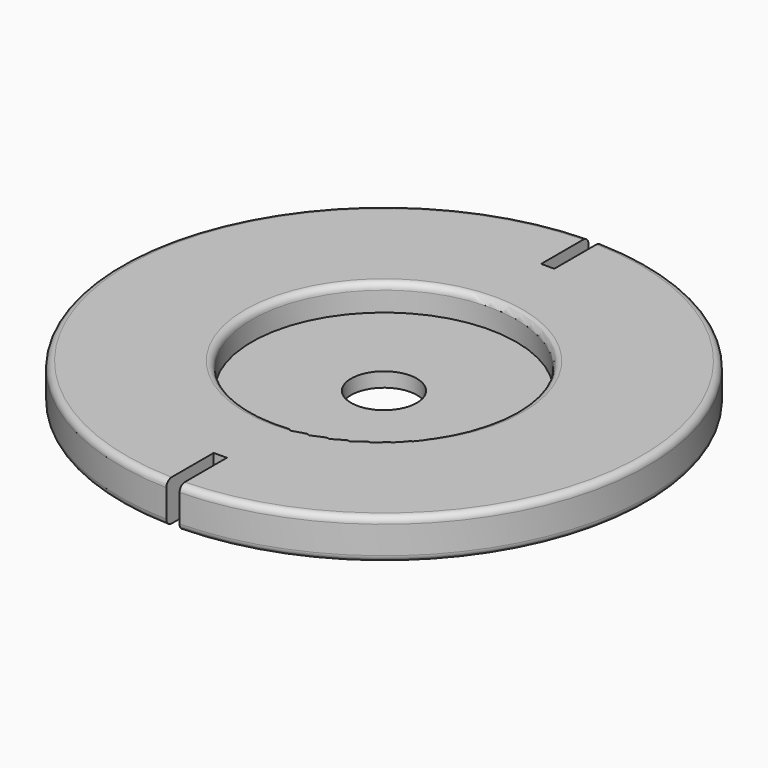
from build123d import *

# Parameters (mm, degrees)
F0_R     = 20.05
F1_DEPTH = 3.1
F2_R     = 10.05
F3_DEPTH = 2
F4_R     = 0.5
F5_R     = 2.5
F6_DEPTH = 3.1010001
F7_W     = 1
F7_H     = 5
F8_DEPTH = 3.1010001


with BuildPart() as f1:
    # F0 (on Top) → F1 (new body)
    with BuildSketch(Plane.XY):
        Circle(F0_R)
    extrude(amount=F1_DEPTH)

    # F2 (on face) → F3 (cut)
    with BuildSketch(Plane.XY.offset(3.1)):
        Circle(F2_R)
    extrude(amount=-F3_DEPTH, mode=Mode.SUBTRACT)

    # F4
    f4_edges = [f1.edges().sort_by_distance(p)[0] for p in [
        (-20.05, 0, 3.1),
        (-10.05, 0, 3.1),
        (-20.05, 0, 0),
    ]]
    fillet(f4_edges, radius=F4_R)

    # F5 (on face) → F6 (cut, through all)
    with BuildSketch(Plane(origin=(0, 0, 0), x_dir=(1, 0, 0), z_dir=(0, 0, -1))):
        Circle(F5_R)
    extrude(amount=-F6_DEPTH, mode=Mode.SUBTRACT)

    # F7 (on face) → F8 (cut, through all)
    with BuildSketch(Plane.XY.offset(3.1)):
        with Locations((0, 18.05)):
            Rectangle(F7_W, F7_H)
        with Locations((0, -18.05)):
            Rectangle(F7_W, F7_H)
    extrude(amount=-F8_DEPTH, mode=Mode.SUBTRACT)


solid = f1.part
